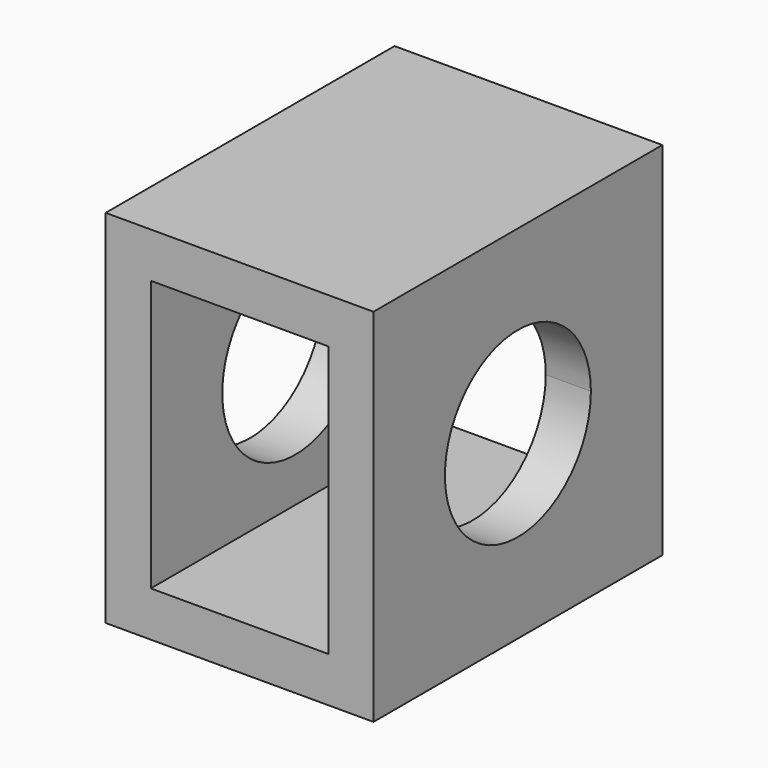
from build123d import *

# Parameters (mm, degrees)
F0_W     = 113.03
F0_H     = 152.4
F0_W_2   = 74.93
F0_H_2   = 114.3
F1_DEPTH = 152.4
F3_DEPTH = 113.031


with BuildPart() as f1:
    # F0 (on Front) → F1 (new body)
    with BuildSketch(Plane.XZ):
        with Locations((56.515, 76.2)):
            Rectangle(F0_W, F0_H)
        with Locations((56.515, 76.2)):
            Rectangle(F0_W_2, F0_H_2, mode=Mode.SUBTRACT)
    extrude(amount=F1_DEPTH)

    # F2 (on face) → F3 (cut, through all)
    with BuildSketch(Plane.YZ.offset(113.03)):
        with BuildLine():
            ThreePointArc((-37.7, 76.2), (-40.630638, 90.933312), (-48.976389, 103.423611))
            Line((-48.976389, 103.423611), (-103.423611, 48.976389))
            ThreePointArc((-103.423611, 48.976389), (-61.466688, 40.630638), (-37.7, 76.2))
        make_face()
        with BuildLine():
            Line((-103.423611, 48.976389), (-48.976389, 103.423611))
            ThreePointArc((-48.976389, 103.423611), (-103.423611, 103.423611), (-103.423611, 48.976389))
        make_face()
    extrude(amount=-F3_DEPTH, mode=Mode.SUBTRACT)


solid = f1.part
